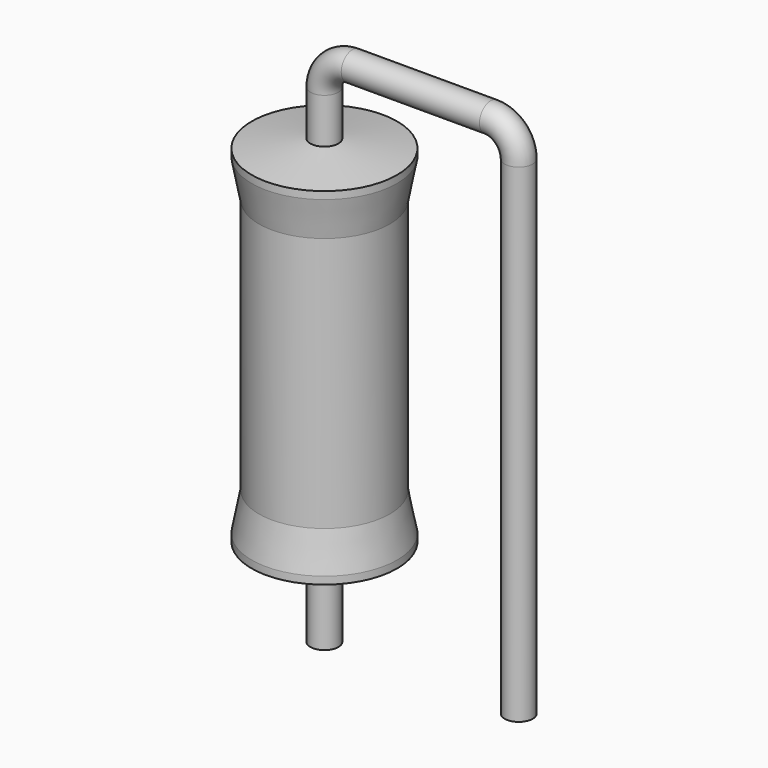
from build123d import *

# Parameters (mm, degrees)
SKETCH_R = 0.55


with BuildPart() as sweep_body:
    # Sweep: sweep along a path in Sketch001
    with BuildLine(Plane.XZ) as sweep_path:
        Line((0, -3), (0, 16.15))
        ThreePointArc((0, 16.15), (0.322185, 16.92782), (1.100008, 17.25))
        Line((1.100008, 17.25), (6.52, 17.25))
        ThreePointArc((6.52, 17.25), (7.297817, 16.927817), (7.62, 16.15))
        Line((7.62, 16.15), (7.62, -3))
    # Sketch → Sweep (sweep)
    with BuildSketch(Plane.XY.offset(-2)):
        Circle(SKETCH_R)
    sweep(path=sweep_path.line)


with BuildPart() as revolution:
    # Sketch002 → Revolution (revolve)
    with BuildSketch(Plane.XZ):
        Polygon((0, 0.1), (0, 14.4), (0.4125, 14.4), (2.85, 14.0425), (2.85, 13.75), (2.565, 12.255), (2.565, 2.245), (2.85, 0.75), (2.85, 0.4575), (0.4125, 0.1), align=None)
    revolve(axis=Axis((0, 0, 0), (0, 0, 1)))


solid = Compound([sweep_body.part, revolution.part])
